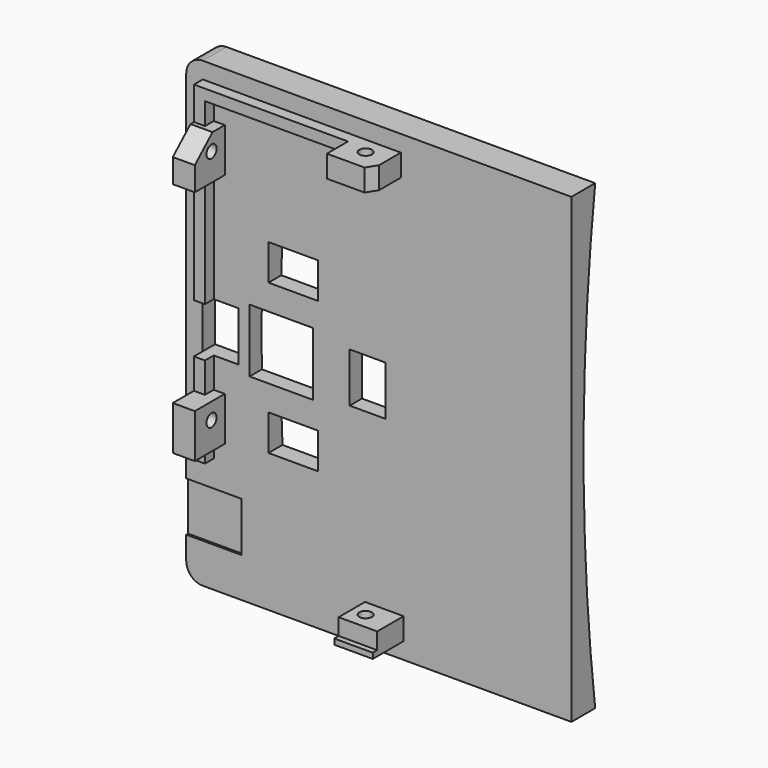
from build123d import *

# Parameters (mm, degrees)
SKETCH009_W             = 84
SKETCH009_H             = 70
PAD002_DEPTH            = 2
SKETCH010_W             = 2
SKETCH010_H             = 7
PAD003_DEPTH            = 2
SKETCH012_W             = 8
SKETCH012_H             = 6.8
PAD004_DEPTH            = 4
SKETCH013_W             = 7
SKETCH013_H             = 6
PAD005_DEPTH            = 4
SKETCH011_W             = 8
SKETCH011_H             = 6.8
PAD006_DEPTH            = 4
SKETCH014_R             = 1.15
POCKET002_DEPTH         = 81.001
SKETCH016_R             = 1.15
POCKET003_DEPTH         = 8.501
SKETCH018_W             = 11.5
SKETCH018_H             = 11.5
POCKET004_DEPTH         = 5
POCKET005_DEPTH         = 5
POCKET006_DEPTH         = 5
SKETCH021_W             = 1
SKETCH021_H             = 7
PAD007_DEPTH            = 1
SKETCH022_W             = 9
SKETCH022_H             = 10
POCKET007_DEPTH         = 0.4
FILLET_R                = 3
BODY002_PITCH_ANGLE     = -90
BODY002_PLACEMENT_ANGLE = 90
PAD001_DEPTH            = 35
SKETCH007_W             = 11.5
SKETCH007_H             = 11.5
POCKET001_DEPTH         = 13
FILLET001_R             = 3
SKETCH025_W             = 6.5
SKETCH025_H             = 9
SKETCH025_W_2           = 9
SKETCH025_H_2           = 6.5
POCKET008_DEPTH         = 8


with BuildPart() as back:
    # Sketch009 → Pad002 (new body)
    with BuildSketch(Plane.XY):
        Rectangle(SKETCH009_W, SKETCH009_H)
    extrude(amount=PAD002_DEPTH)

    # Sketch010 (on Face6 of Pad002) → Pad003 (join)
    with BuildSketch(Plane.XY.offset(2)):
        with Locations((-38, -1)):
            Rectangle(SKETCH010_W, SKETCH010_H)
        Polygon((-21, 32), (39, 32), (39, -4), (37, -4), (37, 30), (-21, 30), align=None)
    extrude(amount=PAD003_DEPTH)

    # Sketch012 (on Face15 of Pad003) → Pad004 (join)
    with BuildSketch(Plane.YZ.offset(39)):
        with Locations((0, 5.4)):
            Rectangle(SKETCH012_W, SKETCH012_H)
    extrude(amount=-PAD004_DEPTH)

    # Sketch013 (on Face9 of Pad004) → Pad005 (join)
    with BuildSketch(Plane(origin=(-39, 0, 0), x_dir=(0, -1, 0), z_dir=(-1, 0, 0))):
        with Locations((1, 5)):
            Rectangle(SKETCH013_W, SKETCH013_H)
    extrude(amount=-PAD005_DEPTH)

    # Sketch011 (on Face16 of Pad003) → Pad006 (join)
    with BuildSketch(Plane(origin=(0, 32, 0), x_dir=(-1, 0, 0), z_dir=(0, 1, 0))):
        with Locations((-29, 5.4)):
            Rectangle(SKETCH011_W, SKETCH011_H)
        with Locations((14, 5.4)):
            Rectangle(SKETCH011_W, SKETCH011_H)
    extrude(amount=-PAD006_DEPTH)

    # Sketch014 (on Face44 of Pad006) → Pocket002 (cut, through all)
    with BuildSketch(Plane.YZ.offset(39)):
        with Locations((0, 5)):
            Circle(SKETCH014_R)
    extrude(amount=-POCKET002_DEPTH, mode=Mode.SUBTRACT)

    # Sketch016 → Pocket003 (cut, through all)
    with BuildSketch(Plane.XZ.offset(-26.5)):
        with Locations((-13, 5)):
            Circle(SKETCH016_R)
        with Locations((30, 5)):
            Circle(SKETCH016_R)
    extrude(amount=-POCKET003_DEPTH, mode=Mode.SUBTRACT)

    # Sketch018 (on Face5 of Pocket003) → Pocket004 (cut)
    with BuildSketch(Plane.XY.offset(2)):
        with Locations((0, 17.75)):
            Rectangle(SKETCH018_W, SKETCH018_H)
    extrude(amount=-POCKET004_DEPTH, mode=Mode.SUBTRACT)

    # Sketch019 (on Face31 of Pocket004) → Pocket005 (cut)
    with BuildSketch(Plane.XZ.offset(-28)):
        Polygon((29.125944, 9.042901), (33.258869, 4.499726), (33.258869, 9.042901), align=None)
    extrude(amount=-POCKET005_DEPTH, mode=Mode.SUBTRACT)

    # Sketch020 (on Face36 of Pocket005) → Pocket006 (cut)
    with BuildSketch(Plane(origin=(35, 0, 0), x_dir=(0, -1, 0), z_dir=(-1, 0, 0))):
        Polygon((2.77547, 8.938441), (6.386171, 3.079567), (6.386171, 8.938441), align=None)
    extrude(amount=-POCKET006_DEPTH, mode=Mode.SUBTRACT)

    # Sketch021 (on Face40 of Pocket006) → Pad007 (join)
    with BuildSketch(Plane.XY.offset(8)):
        with Locations((-38.5, -1)):
            Rectangle(SKETCH021_W, SKETCH021_H)
    extrude(amount=PAD007_DEPTH)

    # Sketch022 (on Face5 of Pocket005) → Pocket007 (cut)
    with BuildSketch(Plane.XY.offset(2)):
        with Locations((-30.3, 30)):
            Rectangle(SKETCH022_W, SKETCH022_H)
    extrude(amount=-POCKET007_DEPTH, mode=Mode.SUBTRACT)

    # Fillet
    fillet_edges = [back.edges().sort_by_distance(p)[0] for p in [
        (42, 35, 1),
        (-42, 35, 1),
    ]]
    fillet(fillet_edges, radius=FILLET_R)


with BuildPart() as back_1:
    # Body002 pitch: moved
    add(back.part.rotate(Axis((0, 0, 0), (0, 1, 0)), BODY002_PITCH_ANGLE))


with BuildPart() as back_2:
    # Body002 placement: moved
    add(back_1.part.rotate(Axis((0, 0, 0), (0, 0, 1)), BODY002_PLACEMENT_ANGLE))


with BuildPart() as curve:
    # Sketch006 → Pad001 (new body, symmetric)
    with BuildSketch(Plane(origin=(0, 0, 0), x_dir=(0, 0, -1), z_dir=(1, 0, 0))):
        with BuildLine():
            ThreePointArc((-42, 3.4), (0, 0.756736), (42, 3.4))
            Line((42, -0.1), (42, 3.4))
            Line((-42, -0.1), (42, -0.1))
            Line((-42, 3.4), (-42, -0.1))
        make_face()
    extrude(amount=PAD001_DEPTH, both=True)

    # Sketch007 (on Face3 of Pad001) → Pocket001 (cut)
    with BuildSketch(Plane.XZ.offset(0.1)):
        with Locations((-17.75, 0)):
            Rectangle(SKETCH007_W, SKETCH007_H)
    extrude(amount=-POCKET001_DEPTH, mode=Mode.SUBTRACT)

    # Fillet001
    fillet001_edges = [curve.edges().sort_by_distance(p)[0] for p in [
        (-35, 1.65, -42),
        (-35, 1.65, 42),
    ]]
    fillet(fillet001_edges, radius=FILLET001_R)

    # Boolean: union Back
    add(back_2.part)

    # Sketch025 (on Face32 of Boolean) → Pocket008 (cut, symmetric)
    with BuildSketch(Plane.XZ.offset(2)):
        with Locations((-28.75, 0)):
            Rectangle(SKETCH025_W, SKETCH025_H)
        with Locations((-15.55, 13.625)):
            Rectangle(SKETCH025_W_2, SKETCH025_H_2)
        with Locations((-2.05, 0)):
            Rectangle(SKETCH025_W, SKETCH025_H)
        with Locations((-15.55, -13.625)):
            Rectangle(SKETCH025_W_2, SKETCH025_H_2)
    extrude(amount=POCKET008_DEPTH, both=True, mode=Mode.SUBTRACT)


solid = curve.part
